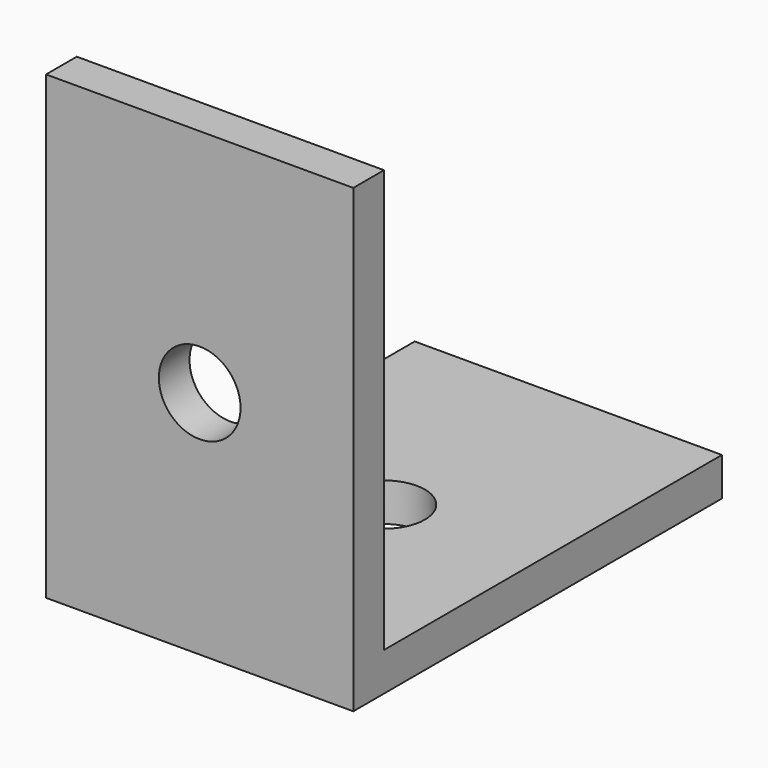
from build123d import *

# Parameters (mm, degrees)
F1_DEPTH = 25.4
F2_R     = 3.3782
F3_DEPTH = 25.4
F4_R     = 3.3782
F5_DEPTH = 25.4


with BuildPart() as f1:
    # F0 (on Right) → F1 (new body)
    with BuildSketch(Plane.YZ):
        Polygon((0, 38.1), (0, 0), (38.1, 0), (38.1, 3.175), (3.175, 3.175), (3.175, 38.1), align=None)
    extrude(amount=F1_DEPTH)

    # F2 (on face) → F3 (cut)
    with BuildSketch(Plane.XZ):
        with Locations((12.7, 19.05)):
            Circle(F2_R)
    extrude(amount=-F3_DEPTH, mode=Mode.SUBTRACT)

    # F4 (on face) → F5 (cut)
    with BuildSketch(Plane(origin=(0, 0, 0), x_dir=(1, 0, 0), z_dir=(0, 0, -1))):
        with Locations((12.7, -19.05)):
            Circle(F4_R)
    extrude(amount=-F5_DEPTH, mode=Mode.SUBTRACT)


solid = f1.part
